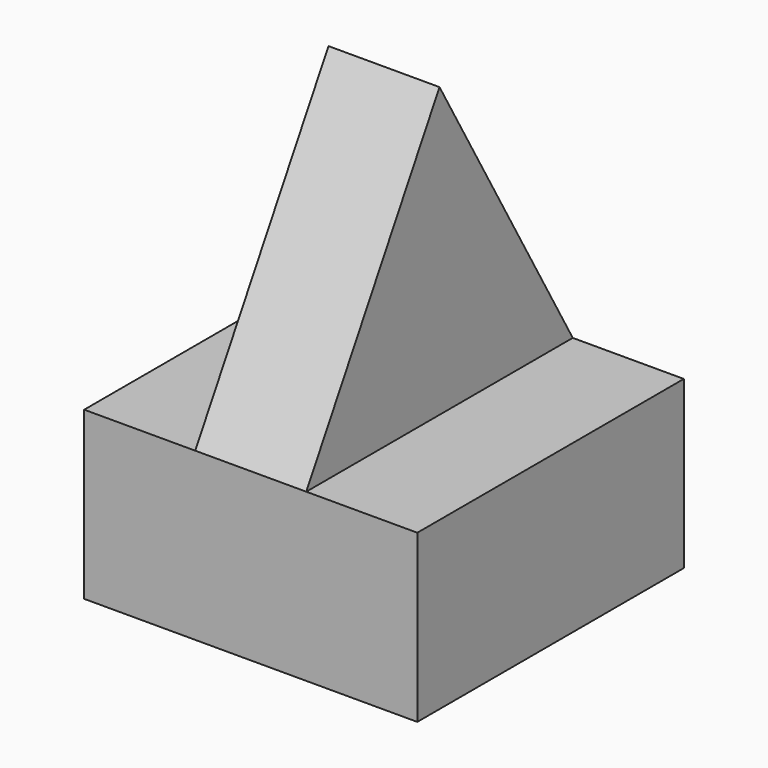
from build123d import *

# Parameters (mm, degrees)
F0_W          = 60
F0_H          = 60
F1_DEPTH      = 30
F3_DEPTH      = 10
F3_DEPTH_BACK = 10


with BuildPart() as f1:
    # F0 (on Top) → F1 (new body)
    with BuildSketch(Plane.XY):
        Rectangle(F0_W, F0_H)
    extrude(amount=F1_DEPTH)

    # F2 (on Right) → F3 (join, two sides)
    with BuildSketch(Plane.YZ) as f3_sk:
        Polygon((-30, 30), (30, 30), (0, 81.9615242271), align=None)
    extrude(amount=-F3_DEPTH)
    extrude(f3_sk.sketch, amount=F3_DEPTH_BACK)


solid = f1.part
